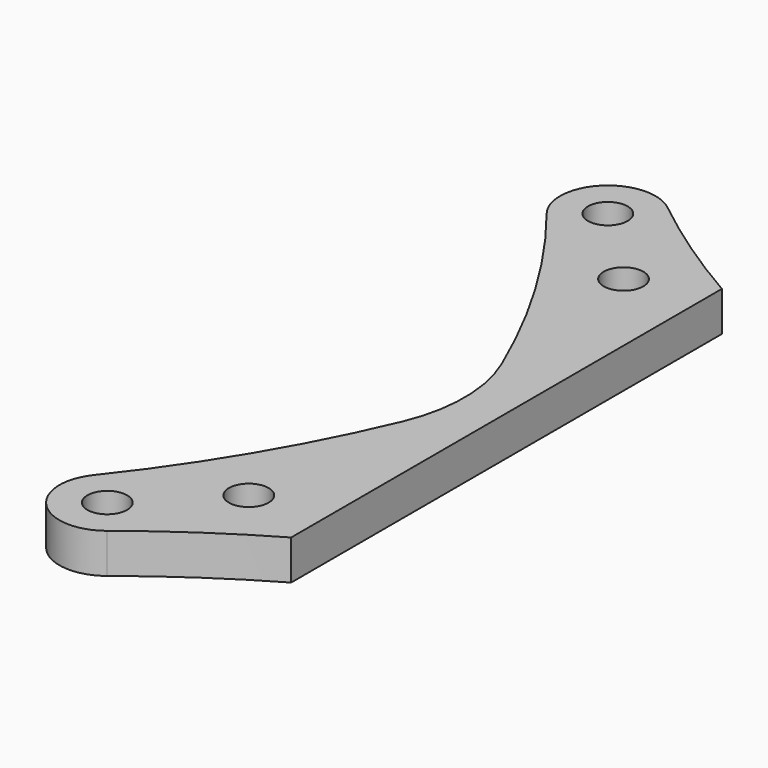
from build123d import *

# Parameters (mm, degrees)
F0_R     = 3.175
F1_DEPTH = 6.35


with BuildPart() as f1:
    # F0 (on Top) → F1 (new body)
    with BuildSketch(Plane.XY):
        with BuildLine():
            ThreePointArc((-26.209211, 43.062647), (-35.98855, 49.17873), (-45.277317, 56.016913))
            ThreePointArc((-45.277317, 56.016913), (-55.442235, 55.442235), (-56.016913, 45.277317))
            ThreePointArc((-56.016913, 45.277317), (-44.295193, 28.317401), (-34.969786, 9.930606))
            ThreePointArc((-34.969786, 9.930606), (-32.948046, 0), (-34.969786, -9.930606))
            ThreePointArc((-34.969786, -9.930606), (-44.295193, -28.317401), (-56.016913, -45.277317))
            ThreePointArc((-56.016913, -45.277317), (-55.442235, -55.442235), (-45.277317, -56.016913))
            ThreePointArc((-45.277317, -56.016913), (-35.98855, -49.17873), (-26.209211, -43.062647))
            Line((-26.209211, -43.062647), (-26.209211, 43.062647))
        make_face()
        with Locations((-50.038, -50.038)):
            Circle(F0_R, mode=Mode.SUBTRACT)
        with Locations((-37.465, -37.465)):
            Circle(F0_R, mode=Mode.SUBTRACT)
        with Locations((-37.465, 37.465)):
            Circle(F0_R, mode=Mode.SUBTRACT)
        with Locations((-50.038, 50.038)):
            Circle(F0_R, mode=Mode.SUBTRACT)
    extrude(amount=F1_DEPTH)


solid = f1.part
